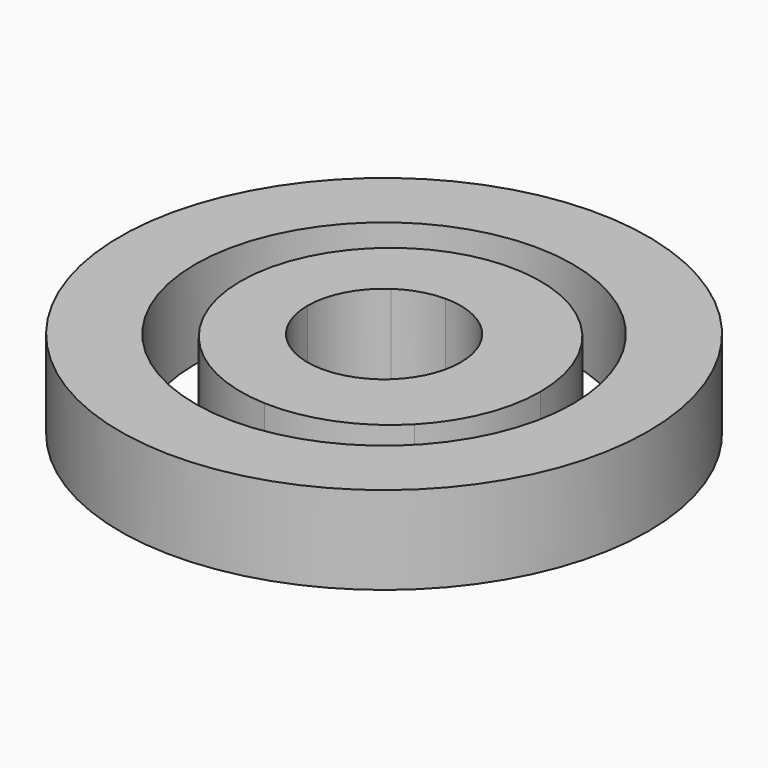
from build123d import *

# Parameters (mm, degrees)
F0_R     = 76.2525314504
F0_R_2   = 54.5574552444
F1_DEPTH = 25.4
F3_DEPTH = 25.4


with BuildPart() as f1:
    # F0 (on Top) → F1 (new body)
    with BuildSketch(Plane.XY):
        Circle(F0_R)
        Circle(F0_R_2, mode=Mode.SUBTRACT)
    extrude(amount=F1_DEPTH)


with BuildPart() as f3:
    # F2 (on Top) → F3 (new body)
    with BuildSketch(Plane.XY):
        with BuildLine():
            ThreePointArc((-12.5467406494, 18.2402484754), (-6.5692382243, 21.1417235466), (0, 22.1388203247))
            Line((0, 22.1388203247), (0, 43.2367834284))
            ThreePointArc((0, 43.2367834284), (-13.2155817888, 40.5612013861), (-24.966290147, 33.9482448338))
            Line((-24.966290147, 33.9482448338), (-12.5467406494, 18.2402484754))
        make_face()
        with BuildLine():
            ThreePointArc((0, 22.1388203247), (8.7644108122, 20.3300877638), (16.0967240708, 15.1994355013))
            Line((16.0967240708, 15.1994355013), (31.4434951245, 31.6011904145))
            ThreePointArc((31.4434951245, 31.6011904145), (16.8942885258, 40.5876080675), (0, 43.2367834284))
            Line((0, 43.2367834284), (0, 22.1388203247))
        make_face()
        with BuildLine():
            ThreePointArc((16.0967240708, 15.1994355013), (20.5729172383, 8.1781686015), (22.1388203247, 0))
            Line((22.1388203247, 0), (45.1523546738, 0))
            ThreePointArc((45.1523546738, 0), (41.5774918306, 17.2232986515), (31.4434951245, 31.6011904145))
            Line((31.4434951245, 31.6011904145), (16.0967240708, 15.1994355013))
        make_face()
        with BuildLine():
            Line((45.1523546738, 0), (22.1388203247, 0))
            ThreePointArc((22.1388203247, 0), (20.7525119127, -7.7110709169), (16.7672048716, -14.4564243907))
            Line((16.7672048716, -14.4564243907), (32.9277202571, -30.1439798106))
            ThreePointArc((32.9277202571, -30.1439798106), (41.9799189299, -16.264233808), (45.1523546738, 0))
        make_face()
        with BuildLine():
            Line((32.9277202571, -30.1439798106), (16.7672048716, -14.4564243907))
            ThreePointArc((16.7672048716, -14.4564243907), (9.2216913645, -20.1267924356), (0, -22.1388203247))
            Line((0, -22.1388203247), (0, -43.2367834284))
            ThreePointArc((0, -43.2367834284), (17.8653108625, -40.2149573382), (32.9277202571, -30.1439798106))
        make_face()
        with BuildLine():
            Line((0, -43.2367834284), (0, -22.1388203247))
            ThreePointArc((0, -22.1388203247), (-7.6925810746, -20.7593728658), (-14.426528287, -16.7929344355))
            Line((-14.426528287, -16.7929344355), (-28.2690422511, -31.0527826976))
            ThreePointArc((-28.2690422511, -31.0527826976), (-15.2544300833, -39.7431704353), (0, -43.2367834284))
        make_face()
        with BuildLine():
            ThreePointArc((-14.426528287, -16.7929344355), (-20.1185695693, -9.2396170839), (-22.1388203247, 0))
            Line((-22.1388203247, 0), (-41.4024795548, 0))
            ThreePointArc((-41.4024795548, 0), (-37.9841167434, -16.85795427), (-28.2690422511, -31.0527826976))
            Line((-28.2690422511, -31.0527826976), (-14.426528287, -16.7929344355))
        make_face()
        with BuildLine():
            Line((-41.4024795548, 0), (-22.1388203247, 0))
            ThreePointArc((-22.1388203247, 0), (-19.5946089814, 10.3043031902), (-12.5467406494, 18.2402484754))
            Line((-12.5467406494, 18.2402484754), (-24.966290147, 33.9482448338))
            ThreePointArc((-24.966290147, 33.9482448338), (-37.0773013967, 18.8588947817), (-41.4024795548, 0))
        make_face()
    extrude(amount=F3_DEPTH)


solid = Compound([f1.part, f3.part])
